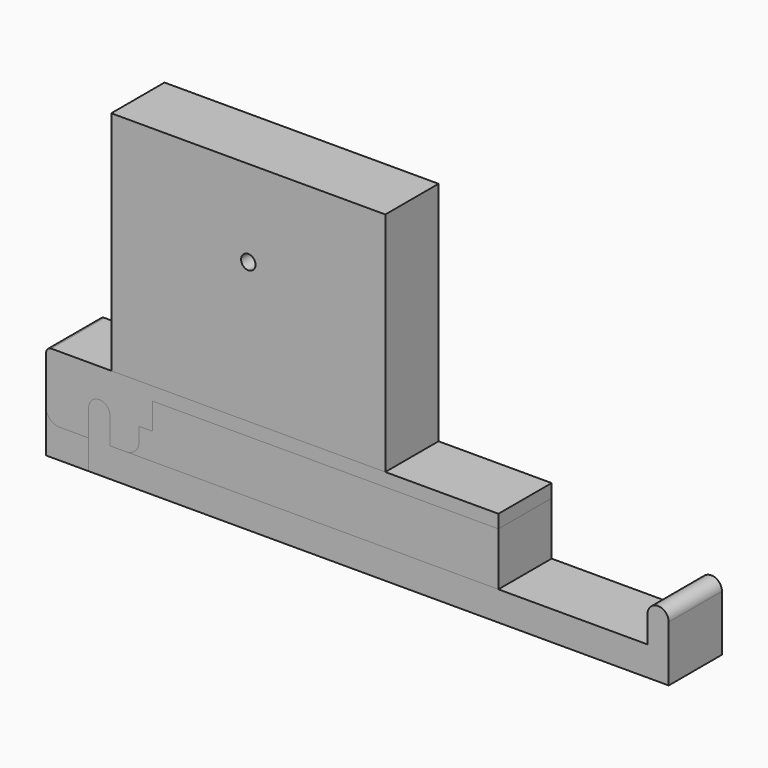
from build123d import *

# Parameters (mm, degrees)
F0_W     = 170
F0_H     = 31
F0_R     = 4
F1_DEPTH = 25
F2_R     = 4
F3_DEPTH = 25
F4_W     = 103
F4_H     = 85.2
F4_R     = 2.7103978623
F5_DEPTH = 25
F6_R     = 2.7103978623
F7_DEPTH = 2
F9_DEPTH = 25


with BuildPart() as f1:
    # F0 (on Front) → F1 (new body)
    with BuildSketch(Plane.XZ):
        with Locations((65, -5.5)):
            Rectangle(F0_W, F0_H)
        Circle(F0_R, mode=Mode.SUBTRACT)
    extrude(amount=F1_DEPTH)


with BuildPart() as f3:
    # F2 (on Front) → F3 (new body)
    with BuildSketch(Plane.XZ):
        with BuildLine():
            Line((20, 0), (20, 10))
            Line((20, 10), (150, 10))
            Line((150, 10), (150, 15))
            Line((150, 15), (-18, 15))
            ThreePointArc((-18, 15), (-19.4142135624, 14.4142135624), (-20, 13))
            Line((-20, 13), (-20, -5))
            ThreePointArc((-20, -5), (-18.5355339059, -8.5355339059), (-15, -10))
            Line((-15, -10), (10, -10))
            ThreePointArc((10, -10), (13.5355339059, -8.5355339059), (15, -5))
            Line((15, -5), (15, 0))
            Line((15, 0), (20, 0))
        make_face()
        Circle(F2_R, mode=Mode.SUBTRACT)
    extrude(amount=F3_DEPTH)


with BuildPart() as f5:
    # F4 (on Front) → F5 (new body)
    with BuildSketch(Plane.XZ):
        with Locations((56, 57.6)):
            Rectangle(F4_W, F4_H)
        with Locations((56, 67.7)):
            Circle(F4_R, mode=Mode.SUBTRACT)
    extrude(amount=F5_DEPTH)


with BuildPart() as f7:
    # F6 (on Front) → F7 (new body)
    with BuildSketch(Plane.XZ):
        with Locations((56, 67.7)):
            Circle(F6_R)
    extrude(amount=-F7_DEPTH)


with BuildPart() as f7b:
    # F6 (on Front) → F7, piece 2 (new body)
    with BuildSketch(Plane.XZ):
        with BuildLine():
            Line((0, 0), (10.7510384864, 28.0074127949))
            ThreePointArc((10.7510384864, 28.0074127949), (6.4931884181, 29.2888802136), (2.0926942123, 29.9269215078))
            Line((2.0926942123, 29.9269215078), (0, 0))
        make_face()
    extrude(amount=-F7_DEPTH)


with BuildPart() as f9:
    # F8 (on Front) → F9 (new body)
    with BuildSketch(Plane.XZ):
        with BuildLine():
            Line((4, -10), (4, 0))
            ThreePointArc((4, 0), (0, 4), (-4, 0))
            Line((-4, 0), (-4, -21))
            Line((-4, -21), (214, -21))
            Line((214, -21), (214, 0))
            ThreePointArc((214, 0), (210, 4), (206, 0))
            Line((206, 0), (206, -10))
            Line((206, -10), (4, -10))
        make_face()
    extrude(amount=F9_DEPTH)


solid = Compound([f1.part, f3.part, f5.part, f7b.part, f9.part])
